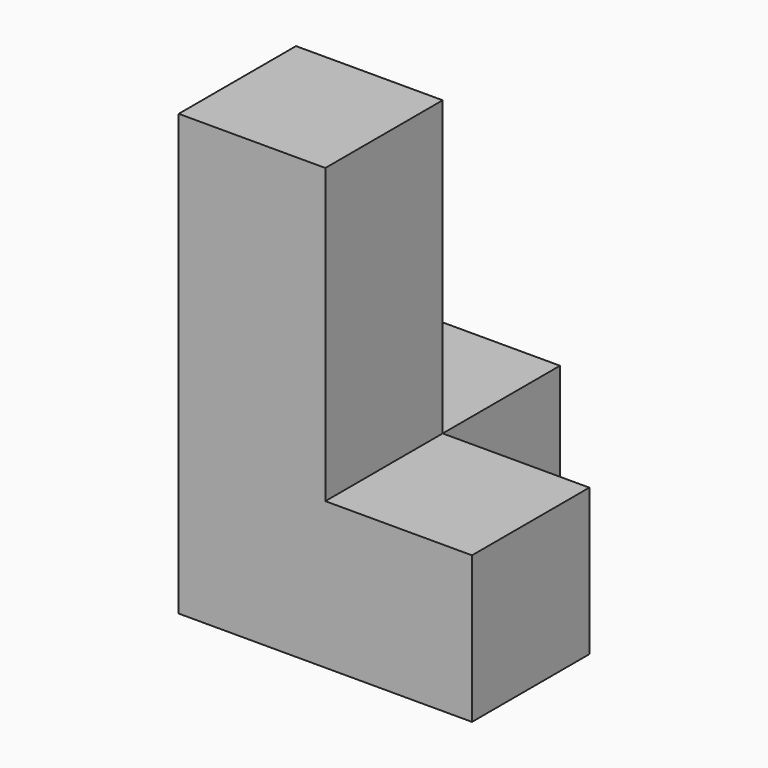
from build123d import *

# Parameters (mm, degrees)
F0_W     = 19.05
F0_H     = 19.05
F1_DEPTH = 19.05
F2_W     = 19.05
F2_H     = 19.05
F3_DEPTH = 38.1


with BuildPart() as f1:
    # F0 (on Top) → F1 (new body)
    with BuildSketch(Plane.XY):
        with Locations((28.575, 9.525)):
            Rectangle(F0_W, F0_H)
        with Locations((9.525, 9.525)):
            Rectangle(F0_W, F0_H)
        with Locations((9.525, 28.575)):
            Rectangle(F0_W, F0_H)
    extrude(amount=F1_DEPTH)

    # F2 (on face) → F3 (join)
    with BuildSketch(Plane.XY.offset(19.05)):
        with Locations((9.525, 9.525)):
            Rectangle(F2_W, F2_H)
    extrude(amount=F3_DEPTH)


solid = f1.part
